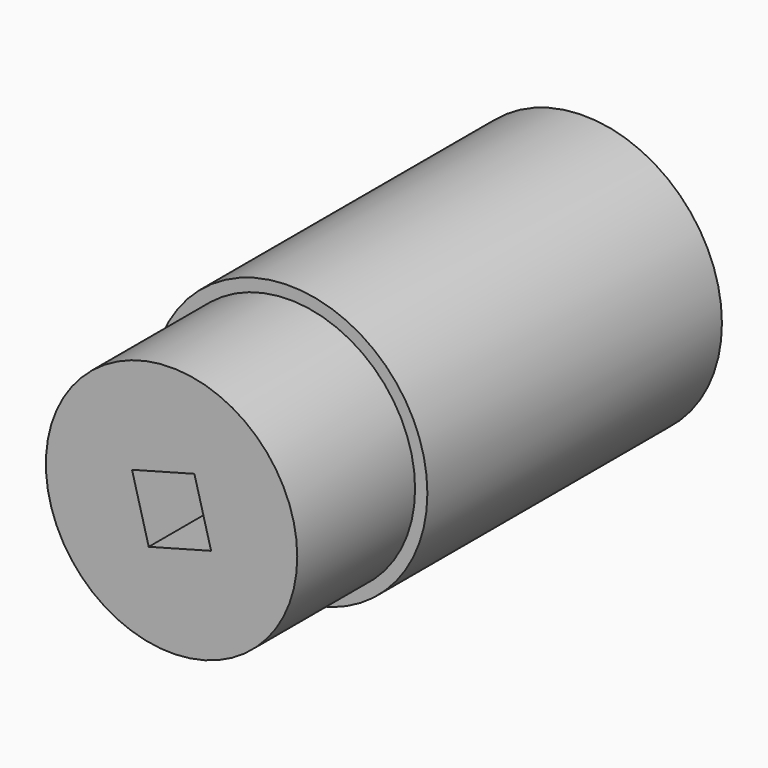
from build123d import *

# Parameters (mm, degrees)
F0_R     = 8.671982
F1_DEPTH = 10.16
F2_R     = 9.520905
F3_DEPTH = 25.4


with BuildPart() as f1:
    # F0 (on Front) → F1 (new body)
    with BuildSketch(Plane.XZ):
        Circle(F0_R)
        Polygon((-2.727972, 1.575014), (1.575014, 2.727972), (2.727972, -1.575014), (-1.575014, -2.727972), align=None, mode=Mode.SUBTRACT)
    extrude(amount=F1_DEPTH)


with BuildPart() as f3:
    # F2 (on Front) → F3 (new body)
    with BuildSketch(Plane.XZ):
        Circle(F2_R)
        Polygon((-7.499642, -0.073302), (-3.813302, 6.458229), (3.68634, 6.531531), (7.499642, 0.073302), (3.813302, -6.458229), (-3.68634, -6.531531), align=None, mode=Mode.SUBTRACT)
    extrude(amount=-F3_DEPTH)


solid = Compound([f1.part, f3.part])
